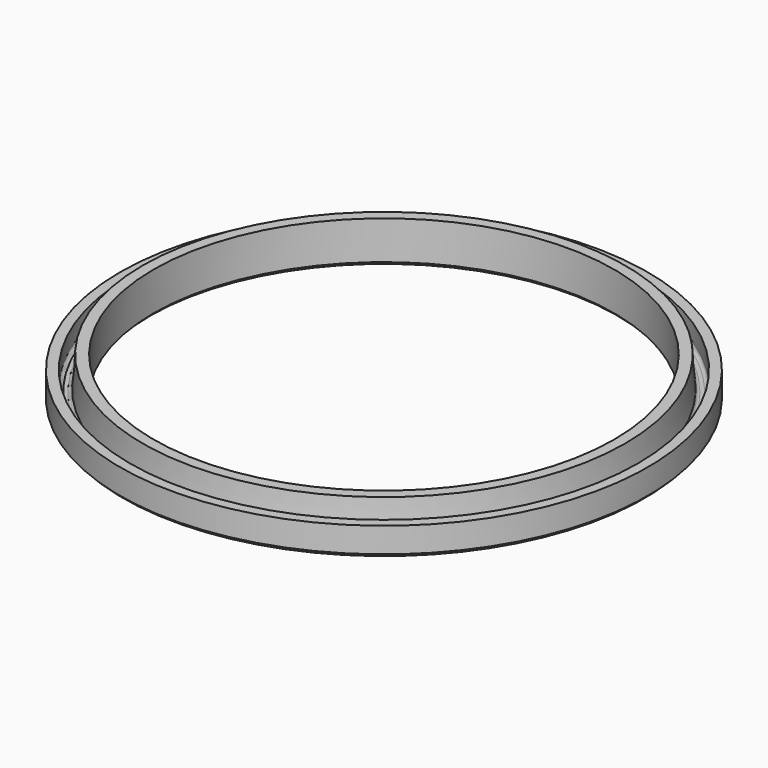
from build123d import *

# Parameters (mm, degrees)
F2_SIZE = 0.508


with BuildPart() as f1:
    # F0 (on Front) → F1 (revolve)
    with BuildSketch(Plane.XZ):
        with BuildLine():
            Line((-38.5075793592, 4.318), (-40.0315793592, 4.318))
            Line((-40.0315793592, 4.318), (-40.0315793592, 0))
            Line((-40.0315793592, 0), (-34.925, 0))
            Line((-34.925, 0), (-34.925, 6.35))
            Line((-34.925, 6.35), (-36.576, 6.35))
            add(Edge.make_bspline(
                [(-36.9315961026, 1.7185381239), (-36.8399383355, 2.4962141158), (-36.6397686392, 4.1078624216), (-36.5864010249, 5.9432817172), (-36.576, 6.35)],
                knots=[0.0857349599, 0.0857349599, 0.0857349599, 0.0857349599, 0.5311692207, 1, 1, 1, 1], degree=3))
            ThreePointArc((-36.9315961026, 1.7185381239), (-37.098570833, 1.3983484275), (-37.4361040662, 1.27))
            Line((-37.4361040662, 1.27), (-37.9995793592, 1.27))
            ThreePointArc((-37.9995793592, 1.27), (-38.3587896041, 1.4187897552), (-38.5075793592, 1.778))
            Line((-38.5075793592, 1.778), (-38.5075793592, 4.318))
        make_face()
    revolve(axis=Axis((0, 0, 11.9043216109), (0, 0, -1)))

    # F2
    f2_edges = [f1.edges().sort_by_distance(p)[0] for p in [
        (40.031579, 0, 0),
        (34.925, 0, 0),
    ]]
    chamfer(f2_edges, length=F2_SIZE)


solid = f1.part
